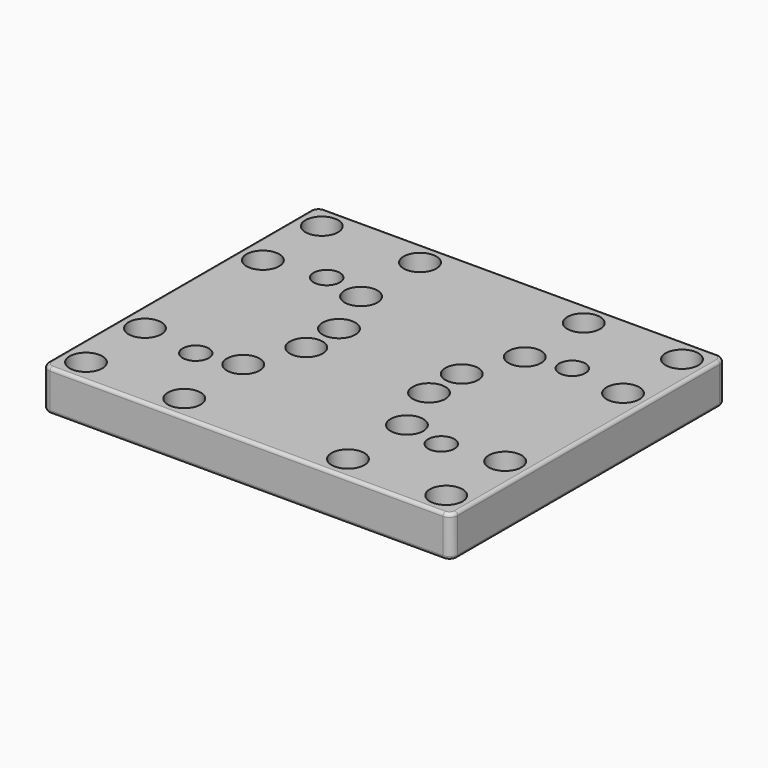
from build123d import *

# Parameters (mm, degrees)
SKETCH_W        = 100
SKETCH_H        = 84
PAD_DEPTH       = 10
SKETCH001_R     = 2.1
POCKET_DEPTH    = 10
SKETCH002_R     = 3.2
POCKET001_DEPTH = 10
SKETCH003_R     = 4
POCKET002_DEPTH = 5
POCKET003_DEPTH = 4
SKETCH004_R     = 4.9
POCKET004_DEPTH = 5.2
FILLET_R        = 2
FILLET001_R     = 0.8
FILLET002_R     = 0.8


with BuildPart() as part:
    # Sketch → Pad (new body)
    with BuildSketch(Plane.XY):
        with Locations((50, 42)):
            Rectangle(SKETCH_W, SKETCH_H)
    extrude(amount=PAD_DEPTH)

    # Sketch001 (on Face6 of Pad) → Pocket (cut)
    with BuildSketch(Plane.XY.offset(10)):
        with Locations((6, 78)):
            Circle(SKETCH001_R)
        with Locations((30, 78)):
            Circle(SKETCH001_R)
        with Locations((6, 60)):
            Circle(SKETCH001_R)
        with Locations((30, 60)):
            Circle(SKETCH001_R)
        with Locations((6, 24)):
            Circle(SKETCH001_R)
        with Locations((30, 24)):
            Circle(SKETCH001_R)
        with Locations((6, 6)):
            Circle(SKETCH001_R)
        with Locations((30, 6)):
            Circle(SKETCH001_R)
        with Locations((70, 78)):
            Circle(SKETCH001_R)
        with Locations((94, 78)):
            Circle(SKETCH001_R)
        with Locations((70, 60)):
            Circle(SKETCH001_R)
        with Locations((94, 60)):
            Circle(SKETCH001_R)
        with Locations((70, 24)):
            Circle(SKETCH001_R)
        with Locations((94, 24)):
            Circle(SKETCH001_R)
        with Locations((70, 6)):
            Circle(SKETCH001_R)
        with Locations((94, 6)):
            Circle(SKETCH001_R)
        with Locations((35, 47)):
            Circle(SKETCH001_R)
        with Locations((65, 47)):
            Circle(SKETCH001_R)
        with Locations((35, 37)):
            Circle(SKETCH001_R)
        with Locations((65, 37)):
            Circle(SKETCH001_R)
    extrude(amount=-POCKET_DEPTH, mode=Mode.SUBTRACT)

    # Sketch002 (on Face5 of Pocket) → Pocket001 (cut)
    with BuildSketch(Plane.XY.offset(10)):
        with Locations((20, 62)):
            Circle(SKETCH002_R)
        with Locations((20, 22)):
            Circle(SKETCH002_R)
        with Locations((80, 62)):
            Circle(SKETCH002_R)
        with Locations((80, 22)):
            Circle(SKETCH002_R)
    extrude(amount=-POCKET001_DEPTH, mode=Mode.SUBTRACT)

    # Sketch003 (on Face5 of Pocket001) → Pocket002 (cut)
    with BuildSketch(Plane.XY.offset(10)):
        with Locations((6, 78)):
            Circle(SKETCH003_R)
        with Locations((30, 78)):
            Circle(SKETCH003_R)
        with Locations((30, 60)):
            Circle(SKETCH003_R)
        with Locations((6, 60)):
            Circle(SKETCH003_R)
        with Locations((70, 78)):
            Circle(SKETCH003_R)
        with Locations((94, 78)):
            Circle(SKETCH003_R)
        with Locations((70, 60)):
            Circle(SKETCH003_R)
        with Locations((94, 60)):
            Circle(SKETCH003_R)
        with Locations((6, 24)):
            Circle(SKETCH003_R)
        with Locations((30, 24)):
            Circle(SKETCH003_R)
        with Locations((6, 6)):
            Circle(SKETCH003_R)
        with Locations((30, 6)):
            Circle(SKETCH003_R)
        with Locations((70, 24)):
            Circle(SKETCH003_R)
        with Locations((94, 24)):
            Circle(SKETCH003_R)
        with Locations((70, 6)):
            Circle(SKETCH003_R)
        with Locations((94, 6)):
            Circle(SKETCH003_R)
        with Locations((35, 47)):
            Circle(SKETCH003_R)
        with Locations((35, 37)):
            Circle(SKETCH003_R)
        with Locations((65, 37)):
            Circle(SKETCH003_R)
        with Locations((65, 47)):
            Circle(SKETCH003_R)
    extrude(amount=-POCKET002_DEPTH, mode=Mode.SUBTRACT)

    # Sketch003 (on Face5 of Pocket001) → Pocket003 (cut)
    with BuildSketch(Plane.XY.offset(10)):
        with Locations((6, 78)):
            Circle(SKETCH003_R)
        with Locations((30, 78)):
            Circle(SKETCH003_R)
        with Locations((30, 60)):
            Circle(SKETCH003_R)
        with Locations((6, 60)):
            Circle(SKETCH003_R)
        with Locations((70, 78)):
            Circle(SKETCH003_R)
        with Locations((94, 78)):
            Circle(SKETCH003_R)
        with Locations((70, 60)):
            Circle(SKETCH003_R)
        with Locations((94, 60)):
            Circle(SKETCH003_R)
        with Locations((6, 24)):
            Circle(SKETCH003_R)
        with Locations((30, 24)):
            Circle(SKETCH003_R)
        with Locations((6, 6)):
            Circle(SKETCH003_R)
        with Locations((30, 6)):
            Circle(SKETCH003_R)
        with Locations((70, 24)):
            Circle(SKETCH003_R)
        with Locations((94, 24)):
            Circle(SKETCH003_R)
        with Locations((70, 6)):
            Circle(SKETCH003_R)
        with Locations((94, 6)):
            Circle(SKETCH003_R)
        with Locations((35, 47)):
            Circle(SKETCH003_R)
        with Locations((35, 37)):
            Circle(SKETCH003_R)
        with Locations((65, 37)):
            Circle(SKETCH003_R)
        with Locations((65, 47)):
            Circle(SKETCH003_R)
    extrude(amount=-POCKET003_DEPTH, mode=Mode.SUBTRACT)

    # Sketch004 (on Face4 of Pocket003) → Pocket004 (cut)
    with BuildSketch(Plane(origin=(0, 0, 0), x_dir=(1, 0, 0), z_dir=(0, 0, -1))):
        with Locations((20, -22)):
            Circle(SKETCH004_R)
        with Locations((80, -22)):
            Circle(SKETCH004_R)
        with Locations((20, -62)):
            Circle(SKETCH004_R)
        with Locations((80, -62)):
            Circle(SKETCH004_R)
    extrude(amount=-POCKET004_DEPTH, mode=Mode.SUBTRACT)

    # Fillet
    fillet_edges = [part.edges().sort_by_distance(p)[0] for p in [
        (100, 0, 5),
        (100, 84, 5),
        (0, 84, 5),
        (0, 0, 5),
    ]]
    fillet(fillet_edges, radius=FILLET_R)

    # Fillet001
    fillet001_edges = [part.edges().sort_by_distance(p)[0] for p in [
        (100, 42, 10),
        (99.414214, 0.585786, 10),
        (50, 0, 10),
        (0.585786, 0.585786, 10),
        (0, 42, 10),
        (0.585786, 83.414214, 10),
        (50, 84, 10),
        (99.414214, 83.414214, 10),
    ]]
    fillet(fillet001_edges, radius=FILLET001_R)

    # Fillet002
    fillet002_edges = [part.edges().sort_by_distance(p)[0] for p in [
        (0, 42, 0),
        (0.585786, 0.585786, 0),
        (50, 0, 0),
        (99.414214, 0.585786, 0),
        (100, 42, 0),
        (99.414214, 83.414214, 0),
        (50, 84, 0),
        (0.585786, 83.414214, 0),
    ]]
    fillet(fillet002_edges, radius=FILLET002_R)


solid = part.part
